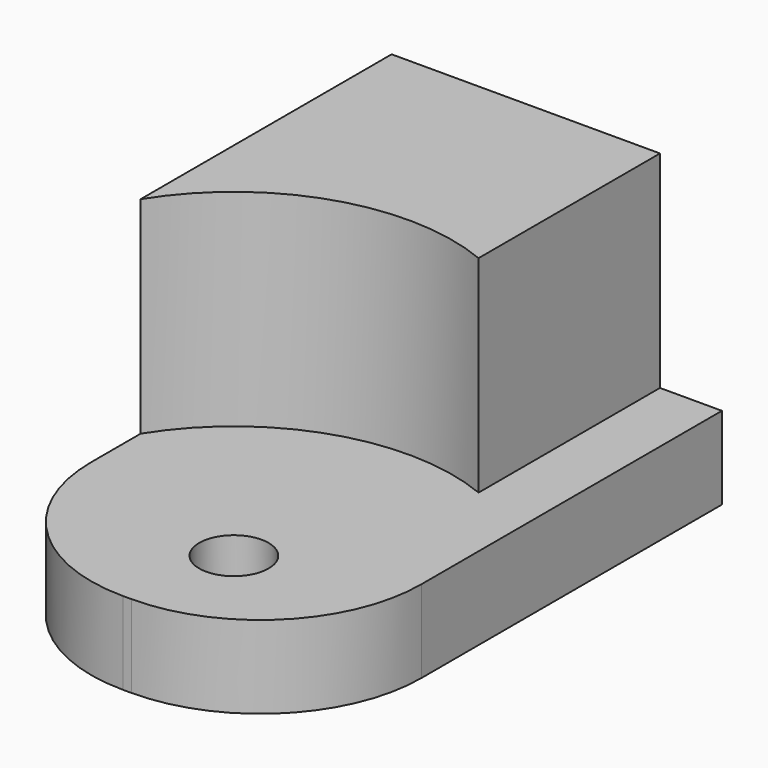
from build123d import *

# Parameters (mm, degrees)
BOX004_W        = 16
BOX004_H        = 26
BOX004_DEPTH    = 14
SKETCH023_R     = 1.68
POCKET014_DEPTH = 19
SKETCH022_R     = 10.6
POCKET015_DEPTH = 10
SKETCH024_W     = 13
SKETCH024_H     = 10
POCKET016_DEPTH = 3
FILLET007_R     = 7.8


with BuildPart() as part:
    # Box004 → Box004 (new body)
    with BuildSketch(Plane(origin=(87, 12, -14), x_dir=(1, 0, 0), z_dir=(0, 0, 1))):
        with Locations((8, 13)):
            Rectangle(BOX004_W, BOX004_H)
    extrude(amount=BOX004_DEPTH)

    # Sketch023 → Pocket014 (cut)
    with BuildSketch(Plane(origin=(87, 12, -14), x_dir=(1, 0, 0), z_dir=(0, 0, -1))):
        with Locations((9, -5.2)):
            Circle(SKETCH023_R)
    extrude(amount=-POCKET014_DEPTH, mode=Mode.SUBTRACT)

    # Sketch022 → Pocket015 (cut)
    with BuildSketch(Plane(origin=(87, 12, 0), x_dir=(1, 0, 0), z_dir=(0, 0, 1))):
        with Locations((9, 5.2)):
            Circle(SKETCH022_R)
    extrude(amount=-POCKET015_DEPTH, mode=Mode.SUBTRACT)

    # Sketch024 → Pocket016 (cut)
    with BuildSketch(Plane(origin=(103, 12, -14), x_dir=(0, 1, 0), z_dir=(1, 0, 0))):
        with Locations((19.5, 9)):
            Rectangle(SKETCH024_W, SKETCH024_H)
    extrude(amount=-POCKET016_DEPTH, mode=Mode.SUBTRACT)

    # Fillet007
    fillet007_edges = [part.edges().sort_by_distance(p)[0] for p in [
        (87, 12, -12),
        (103, 12, -12),
    ]]
    fillet(fillet007_edges, radius=FILLET007_R)


solid = part.part
